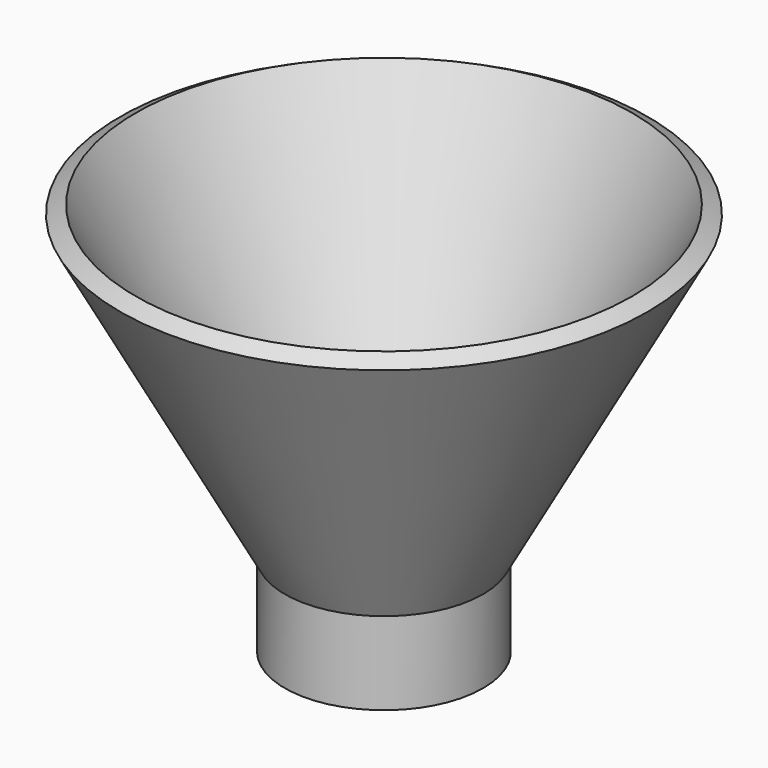
from build123d import *

# Parameters (mm, degrees)
F2_R     = 18.447734
F3_DEPTH = 50.8


with BuildPart() as f1:
    # F0 (on Front) → F1 (revolve)
    with BuildSketch(Plane.XZ):
        Polygon((35.946522, 65.929569), (0.722543, 1.325217), (-16.730869, 1.325217), (-16.730869, -17.55913), (4.306957, -17.55913), (4.306957, 0), (39.266534, 64.119412), align=None)
    revolve(axis=Axis((-16.730869, 0, -8.116956), (0, 0, 1)))

    # F2 (on face) → F3 (cut)
    with BuildSketch(Plane(origin=(0, 0, -17.55913), x_dir=(1, 0, 0), z_dir=(0, 0, -1))):
        with Locations((-16.730869, 0)):
            Circle(F2_R)
    extrude(amount=-F3_DEPTH, mode=Mode.SUBTRACT)


solid = f1.part
